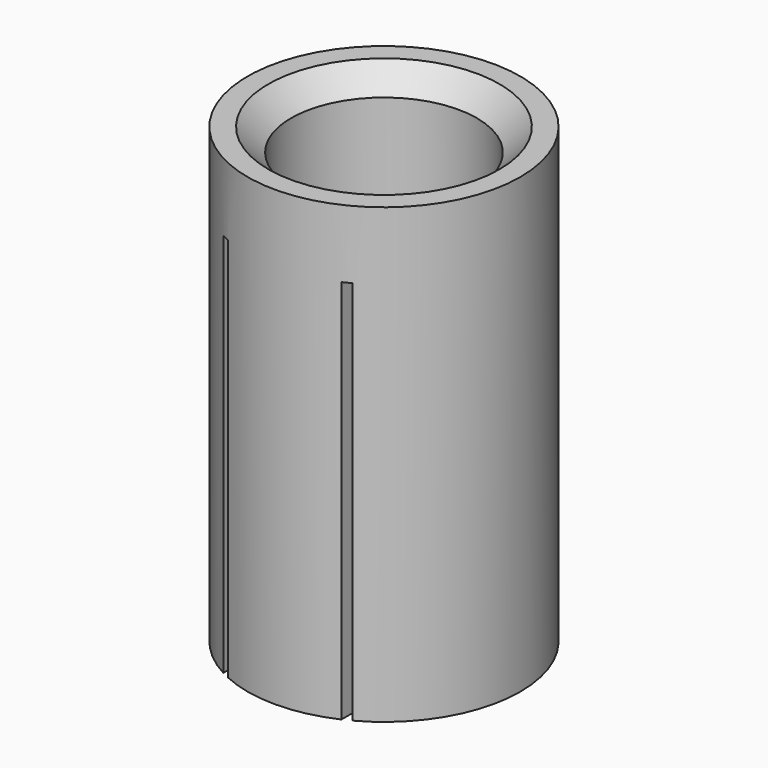
from build123d import *

# Parameters (mm, degrees)
F0_R     = 6.02
F0_R_2   = 4.1
F1_DEPTH = 20
F3_R     = 1.25
F4_DEPTH = 4
F5_W     = 0.35
F5_H     = 17
F6_DEPTH = 2.5
F7_SIZE  = 1


with BuildPart() as f1:
    # F0 (on Top) → F1 (new body)
    with BuildSketch(Plane.XY):
        Circle(F0_R)
        Circle(F0_R_2, mode=Mode.SUBTRACT)
    extrude(amount=F1_DEPTH)

    # F3 (on offset) → F4 (join)
    with BuildSketch(Plane.XZ.offset(5)):
        with Locations((0, 1.25)):
            Circle(F3_R)
    extrude(amount=-F4_DEPTH)

    # F5 (on offset) → F6 (cut, symmetric)
    with BuildSketch(Plane.XZ.offset(5)):
        with Locations((-2.675, 8.5)):
            Rectangle(F5_W, F5_H)
        with Locations((2.675, 8.5)):
            Rectangle(F5_W, F5_H)
    extrude(amount=F6_DEPTH, both=True, mode=Mode.SUBTRACT)

    # F7
    f7_edges = [f1.edges().sort_by_distance(p)[0] for p in [
        (-4.1, 0, 20),
        (-1.600781, 3.774586, 0),
    ]]
    chamfer(f7_edges, length=F7_SIZE)


solid = f1.part
